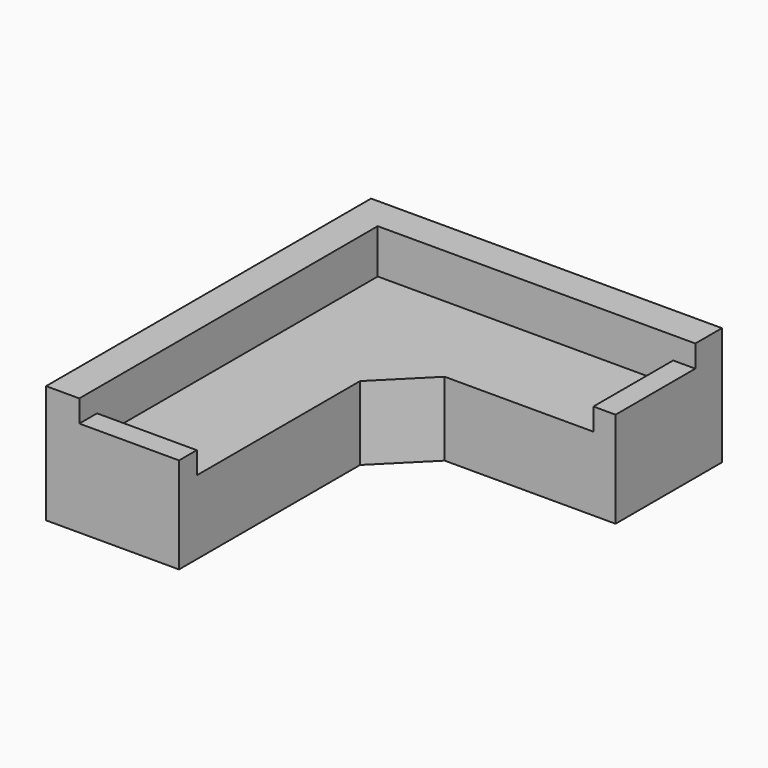
from build123d import *

# Parameters (mm, degrees)
F1_DEPTH = 508
F3_DEPTH = 304.8
F4_W     = 152.4
F4_H     = 685.8
F4_W_2   = 685.8
F4_H_2   = 152.4
F5_DEPTH = 152.4


with BuildPart() as f1:
    # F0 (on Top) → F1 (new body)
    with BuildSketch(Plane.XY):
        Polygon((2413, 0), (0, 0), (0, -2794), (914.4, -2794), (914.4, -1237.68922), (1237.68922, -914.4), (2413, -914.4), align=None)
    extrude(amount=F1_DEPTH)

    # F2 (on face) → F3 (join)
    with BuildSketch(Plane.XY.offset(508)):
        Polygon((0, 0), (0, -2794), (228.6, -2794), (228.6, -228.6), (2413, -228.6), (2413, 0), align=None)
    extrude(amount=F3_DEPTH)

    # F4 (on face) → F5 (join)
    with BuildSketch(Plane.XY.offset(508)):
        with Locations((2336.8, -571.5)):
            Rectangle(F4_W, F4_H)
        with Locations((571.5, -2717.8)):
            Rectangle(F4_W_2, F4_H_2)
    extrude(amount=F5_DEPTH)


solid = f1.part
